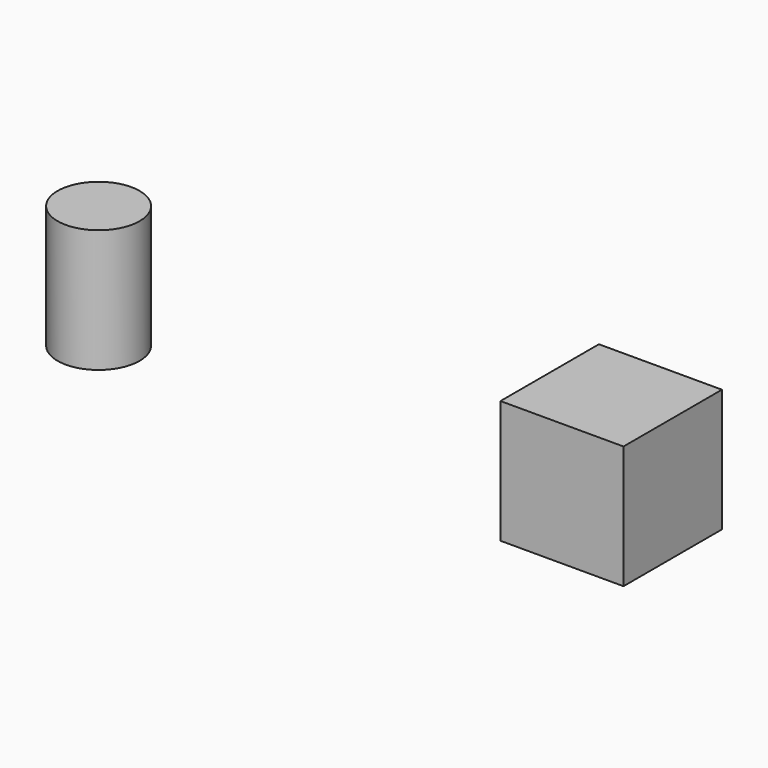
from build123d import *

# Parameters (mm, degrees)
SKETCH_R     = 10
PAD_DEPTH    = 30
SKETCH001_W  = 30
SKETCH001_H  = 30
PAD001_DEPTH = 30


with BuildPart() as body:
    # Sketch → Pad (new body)
    with BuildSketch(Plane.XY):
        with Locations((-60, 0)):
            Circle(SKETCH_R)
    extrude(amount=PAD_DEPTH)


with BuildPart() as body001:
    # Sketch001 → Pad001 (new body)
    with BuildSketch(Plane.XY):
        with Locations((65, 0)):
            Rectangle(SKETCH001_W, SKETCH001_H)
    extrude(amount=PAD001_DEPTH)


solid = Compound([body.part, body001.part])
